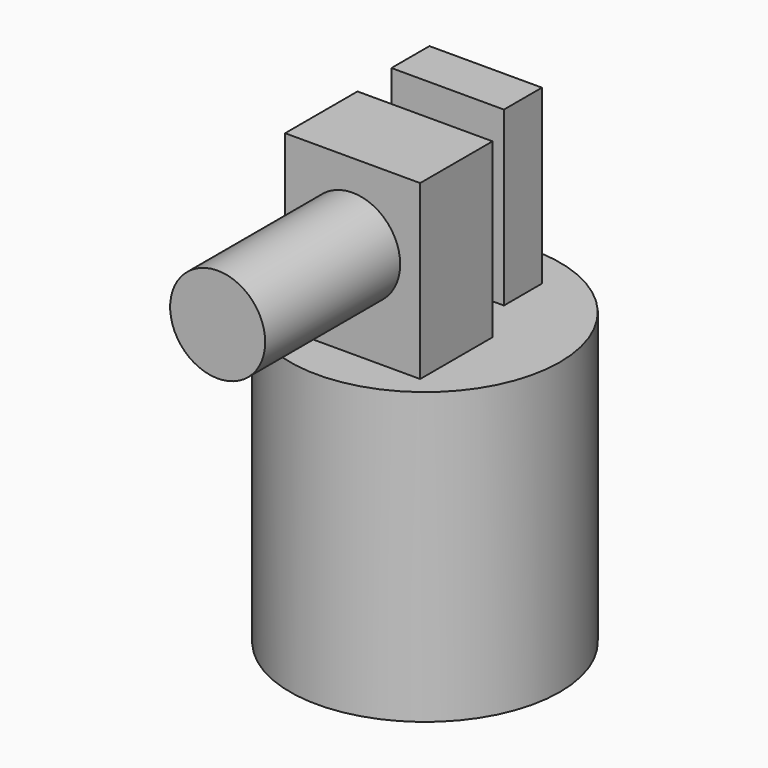
from build123d import *

# Parameters (mm, degrees)
F0_R     = 53.51649
F1_DEPTH = 115.161
F2_W     = 44.614081
F2_H     = 18.834734
F2_W_2   = 53.55269
F2_H_2   = 35.868514
F3_DEPTH = 68.41306
F4_R     = 18.843136
F5_DEPTH = 66.90822


with BuildPart() as f1:
    # F0 (on Top) → F1 (new body)
    with BuildSketch(Plane.XY):
        Circle(F0_R)
    extrude(amount=F1_DEPTH)

    # F2 (on face) → F3 (join)
    with BuildSketch(Plane.XY.offset(115.161)):
        with Locations((-6.069197, 28.253733)):
            Rectangle(F2_W, F2_H)
        with Locations((0, -17.934257)):
            Rectangle(F2_W_2, F2_H_2)
    extrude(amount=F3_DEPTH)

    # F4 (on face) → F5 (join)
    with BuildSketch(Plane.XZ.offset(35.868514)):
        with Locations((0, 152.677178)):
            Circle(F4_R)
    extrude(amount=F5_DEPTH)


solid = f1.part
